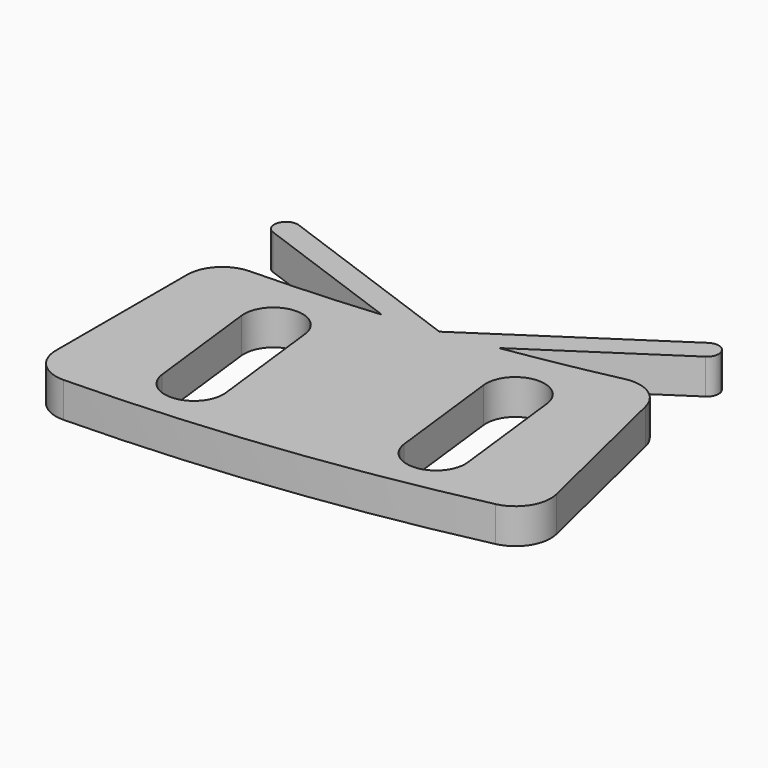
from build123d import *

# Parameters (mm, degrees)
F1_DEPTH = 3


with BuildPart() as f1:
    # F0 (on Top) → F1 (new body)
    with BuildSketch(Plane.XY):
        with BuildLine():
            ThreePointArc((13.740081, -149.369375), (8.346054, -149.767631), (2.941176, -149.971162))
            ThreePointArc((2.941176, -149.971162), (0.857983, -150.870165), (0, -152.970585))
            Line((0, -152.970585), (0, -166.973052))
            ThreePointArc((0, -166.973052), (0.89782, -169.113341), (3.053892, -169.972568))
            ThreePointArc((3.053892, -169.972568), (20, -168.81943), (36.746454, -165.981017))
            ThreePointArc((36.746454, -165.981017), (38.642075, -164.641788), (39.014942, -162.35096))
            Line((39.014942, -162.35096), (35.743124, -148.736106))
            ThreePointArc((35.743124, -148.736106), (34.418107, -146.894305), (32.182519, -146.506947))
            ThreePointArc((32.182519, -146.506947), (27.522612, -147.453402), (22.835048, -148.25168))
            Line((22.835048, -148.25168), (34.36848, -140.614204))
            ThreePointArc((34.36848, -140.614204), (34.748401, -140.142789), (34.786661, -139.538546))
            ThreePointArc((34.786661, -139.538546), (34.178707, -138.848398), (33.264238, -138.946677))
            Line((33.264238, -138.946677), (18.278354, -148.870377))
            Line((18.278354, -148.870377), (18.334856, -148.875227))
            ThreePointArc((18.334856, -148.875227), (18.295672, -148.880047), (18.256487, -148.884857))
            Line((18.256487, -148.884857), (1.34202, -142.728495))
            ThreePointArc((1.34202, -142.728495), (0.426424, -142.849035), (0, -143.668187))
            ThreePointArc((0, -143.668187), (0.180848, -144.241764), (0.65798, -144.60788))
            Line((0.65798, -144.60788), (13.740081, -149.369375))
        make_face()
        with BuildLine():
            ThreePointArc((6.517361, -155.319249), (8.705882, -152.542493), (11.482639, -154.731014))
            Line((11.482639, -154.731014), (12.659109, -164.661569))
            ThreePointArc((12.659109, -164.661569), (10.470588, -167.438325), (7.693832, -165.249804))
            Line((7.693832, -165.249804), (6.517361, -155.319249))
        make_face(mode=Mode.SUBTRACT)
        with BuildLine():
            ThreePointArc((25.385415, -153.083955), (27.573936, -150.307199), (30.350693, -152.49572))
            Line((30.350693, -152.49572), (31.527163, -162.426275))
            ThreePointArc((31.527163, -162.426275), (29.338642, -165.203031), (26.561886, -163.01451))
            Line((26.561886, -163.01451), (25.385415, -153.083955))
        make_face(mode=Mode.SUBTRACT)
        with BuildLine():
            ThreePointArc((13.740081, -149.369375), (8.346054, -149.767631), (2.941176, -149.971162))
            ThreePointArc((2.941176, -149.971162), (0.857983, -150.870165), (0, -152.970585))
            Line((0, -152.970585), (0, -166.973052))
            ThreePointArc((0, -166.973052), (0.89782, -169.113341), (3.053892, -169.972568))
            ThreePointArc((3.053892, -169.972568), (20, -168.81943), (36.746454, -165.981017))
            ThreePointArc((36.746454, -165.981017), (38.642075, -164.641788), (39.014942, -162.35096))
            Line((39.014942, -162.35096), (35.743124, -148.736106))
            ThreePointArc((35.743124, -148.736106), (34.418107, -146.894305), (32.182519, -146.506947))
            ThreePointArc((32.182519, -146.506947), (27.522612, -147.453402), (22.835048, -148.25168))
            Line((22.835048, -148.25168), (34.36848, -140.614204))
            ThreePointArc((34.36848, -140.614204), (34.748401, -140.142789), (34.786661, -139.538546))
            ThreePointArc((34.786661, -139.538546), (34.178707, -138.848398), (33.264238, -138.946677))
            Line((33.264238, -138.946677), (18.278354, -148.870377))
            Line((18.278354, -148.870377), (18.334856, -148.875227))
            ThreePointArc((18.334856, -148.875227), (18.295672, -148.880047), (18.256487, -148.884857))
            Line((18.256487, -148.884857), (1.34202, -142.728495))
            ThreePointArc((1.34202, -142.728495), (0.426424, -142.849035), (0, -143.668187))
            ThreePointArc((0, -143.668187), (0.180848, -144.241764), (0.65798, -144.60788))
            Line((0.65798, -144.60788), (13.740081, -149.369375))
        make_face()
        with BuildLine():
            ThreePointArc((6.517361, -155.319249), (8.705882, -152.542493), (11.482639, -154.731014))
            Line((11.482639, -154.731014), (12.659109, -164.661569))
            ThreePointArc((12.659109, -164.661569), (10.470588, -167.438325), (7.693832, -165.249804))
            Line((7.693832, -165.249804), (6.517361, -155.319249))
        make_face(mode=Mode.SUBTRACT)
        with BuildLine():
            ThreePointArc((25.385415, -153.083955), (27.573936, -150.307199), (30.350693, -152.49572))
            Line((30.350693, -152.49572), (31.527163, -162.426275))
            ThreePointArc((31.527163, -162.426275), (29.338642, -165.203031), (26.561886, -163.01451))
            Line((26.561886, -163.01451), (25.385415, -153.083955))
        make_face(mode=Mode.SUBTRACT)
    extrude(amount=F1_DEPTH)


solid = f1.part
